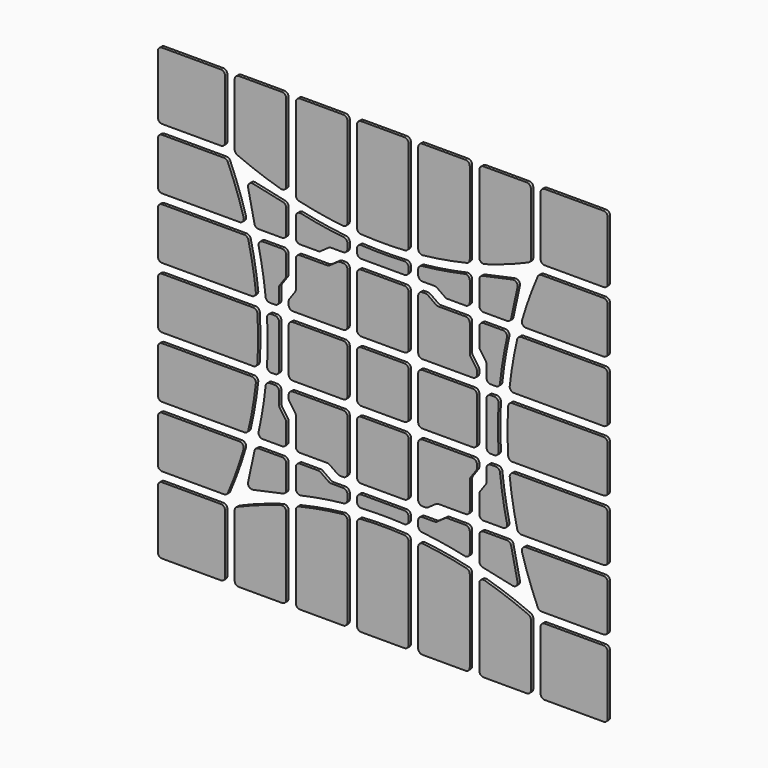
from build123d import *

# Parameters (mm, degrees)
F1_DEPTH = 0.5


with BuildPart() as f1:
    # F0 (on Front) → F1 (new body)
    with BuildSketch(Plane.XZ):
        with BuildLine():
            ThreePointArc((-4.3, -3.6), (-4.094975, -4.094975), (-3.6, -4.3))
            Line((-3.6, -4.3), (3.6, -4.3))
            ThreePointArc((3.6, -4.3), (4.094975, -4.094975), (4.3, -3.6))
            Line((4.3, -3.6), (4.3, 3.6))
            ThreePointArc((4.3, 3.6), (4.094975, 4.094975), (3.6, 4.3))
            Line((3.6, 4.3), (-3.6, 4.3))
            ThreePointArc((-3.6, 4.3), (-4.094975, 4.094975), (-4.3, 3.6))
            Line((-4.3, 3.6), (-4.3, -3.6))
        make_face()
        with BuildLine():
            Line((3.6, -5.9), (-3.6, -5.9))
            ThreePointArc((-3.6, -5.9), (-4.094975, -6.105025), (-4.3, -6.6))
            Line((-4.3, -6.6), (-4.3, -15))
            ThreePointArc((-4.3, -15), (-4.094975, -15.494975), (-3.6, -15.7))
            Line((-3.6, -15.7), (3.6, -15.7))
            ThreePointArc((3.6, -15.7), (4.094975, -15.494975), (4.3, -15))
            Line((4.3, -15), (4.3, -6.6))
            ThreePointArc((4.3, -6.6), (4.094975, -6.105025), (3.6, -5.9))
        make_face()
        with BuildLine():
            Line((-27, -26.3), (-36.8, -26.3))
            ThreePointArc((-36.8, -26.3), (-37.294975, -26.505025), (-37.5, -27))
            Line((-37.5, -27), (-37.5, -36.8))
            ThreePointArc((-37.5, -36.8), (-37.294975, -37.294975), (-36.8, -37.5))
            Line((-36.8, -37.5), (-27, -37.5))
            ThreePointArc((-27, -37.5), (-26.505025, -37.294975), (-26.3, -36.8))
            Line((-26.3, -36.8), (-26.3, -27))
            ThreePointArc((-26.3, -27), (-26.505025, -26.505025), (-27, -26.3))
        make_face()
        with BuildLine():
            Line((-4.3, -18), (-4.3, -18.60235))
            ThreePointArc((-4.3, -18.60235), (-4.080708, -19.111191), (-3.56023, -19.301219))
            ThreePointArc((-3.56023, -19.301219), (0, -19.2), (3.56023, -19.301219))
            ThreePointArc((3.56023, -19.301219), (4.080708, -19.111191), (4.3, -18.60235))
            Line((4.3, -18.60235), (4.3, -18))
            ThreePointArc((4.3, -18), (4.094975, -17.505025), (3.6, -17.3))
            Line((3.6, -17.3), (-3.6, -17.3))
            ThreePointArc((-3.6, -17.3), (-4.094975, -17.505025), (-4.3, -18))
        make_face()
        with BuildLine():
            ThreePointArc((-3.641747, -20.908691), (-4.109521, -21.127457), (-4.3, -21.607445))
            Line((-4.3, -21.607445), (-4.3, -36.8))
            ThreePointArc((-4.3, -36.8), (-4.094975, -37.294975), (-3.6, -37.5))
            Line((-3.6, -37.5), (3.6, -37.5))
            ThreePointArc((3.6, -37.5), (4.094975, -37.294975), (4.3, -36.8))
            Line((4.3, -36.8), (4.3, -21.607445))
            ThreePointArc((4.3, -21.607445), (4.109521, -21.127457), (3.641747, -20.908691))
            ThreePointArc((3.641747, -20.908691), (0, -20.8), (-3.641747, -20.908691))
        make_face()
        with BuildLine():
            ThreePointArc((-24.278313, -25.833901), (-24.585158, -26.092021), (-24.7, -26.476196))
            Line((-24.7, -26.476196), (-24.7, -36.8))
            ThreePointArc((-24.7, -36.8), (-24.494975, -37.294975), (-24, -37.5))
            Line((-24, -37.5), (-16.8, -37.5))
            ThreePointArc((-16.8, -37.5), (-16.305025, -37.294975), (-16.1, -36.8))
            Line((-16.1, -36.8), (-16.1, -23.884945))
            ThreePointArc((-16.1, -23.884945), (-16.379508, -23.325315), (-16.994819, -23.212602))
            ThreePointArc((-16.994819, -23.212602), (-20.678145, -24.407723), (-24.278313, -25.833901))
        make_face()
        with BuildLine():
            ThreePointArc((-13.96003, -22.417146), (-14.348644, -22.663879), (-14.5, -23.098608))
            Line((-14.5, -23.098608), (-14.5, -36.8))
            ThreePointArc((-14.5, -36.8), (-14.294975, -37.294975), (-13.8, -37.5))
            Line((-13.8, -37.5), (-6.6, -37.5))
            ThreePointArc((-6.6, -37.5), (-6.105025, -37.294975), (-5.9, -36.8))
            Line((-5.9, -36.8), (-5.9, -21.861898))
            ThreePointArc((-5.9, -21.861898), (-6.132868, -21.340566), (-6.676536, -21.166095))
            ThreePointArc((-6.676536, -21.166095), (-10.337226, -21.681335), (-13.96003, -22.417146))
        make_face()
        with BuildLine():
            Line((-16.1, -20.709702), (-16.1, -16.8))
            ThreePointArc((-16.1, -16.8), (-16.305025, -16.305025), (-16.8, -16.1))
            Line((-16.8, -16.1), (-20.709702, -16.1))
            ThreePointArc((-20.709702, -16.1), (-21.149669, -16.255547), (-21.394106, -16.653059))
            Line((-21.394106, -16.653059), (-22.463011, -21.631667))
            ThreePointArc((-22.463011, -21.631667), (-22.273583, -22.273583), (-21.631667, -22.463011))
            Line((-21.631667, -22.463011), (-16.653059, -21.394106))
            ThreePointArc((-16.653059, -21.394106), (-16.255547, -21.149669), (-16.1, -20.709702))
        make_face()
        with BuildLine():
            Line((-14.5, -16.8), (-14.5, -20.02101))
            ThreePointArc((-14.5, -20.02101), (-14.237769, -20.567232), (-13.647547, -20.704207))
            ThreePointArc((-13.647547, -20.704207), (-10.104074, -20.01997), (-6.527088, -19.54086))
            ThreePointArc((-6.527088, -19.54086), (-6.079885, -19.313155), (-5.9, -18.844668))
            Line((-5.9, -18.844668), (-5.9, -18))
            ThreePointArc((-5.9, -18), (-6.105025, -17.505025), (-6.6, -17.3))
            Line((-6.6, -17.3), (-8.631739, -17.3))
            ThreePointArc((-8.631739, -17.3), (-8.8435, -17.267201), (-9.035417, -17.171878))
            Line((-9.035417, -17.171878), (-10.372403, -16.228122))
            ThreePointArc((-10.372403, -16.228122), (-10.56432, -16.132799), (-10.776082, -16.1))
            Line((-10.776082, -16.1), (-13.8, -16.1))
            ThreePointArc((-13.8, -16.1), (-14.294975, -16.305025), (-14.5, -16.8))
        make_face()
        with BuildLine():
            Line((-5.9, -15), (-5.9, -6.6))
            ThreePointArc((-5.9, -6.6), (-6.105025, -6.105025), (-6.6, -5.9))
            Line((-6.6, -5.9), (-15, -5.9))
            ThreePointArc((-15, -5.9), (-15.494975, -6.105025), (-15.7, -6.6))
            Line((-15.7, -6.6), (-15.7, -7.123918))
            ThreePointArc((-15.7, -7.123918), (-15.667201, -7.33568), (-15.571878, -7.527597))
            Line((-15.571878, -7.527597), (-14.628122, -8.864583))
            ThreePointArc((-14.628122, -8.864583), (-14.532799, -9.0565), (-14.5, -9.268261))
            Line((-14.5, -9.268261), (-14.5, -13.8))
            ThreePointArc((-14.5, -13.8), (-14.294975, -14.294975), (-13.8, -14.5))
            Line((-13.8, -14.5), (-9.268261, -14.5))
            ThreePointArc((-9.268261, -14.5), (-9.0565, -14.532799), (-8.864583, -14.628122))
            Line((-8.864583, -14.628122), (-7.527597, -15.571878))
            ThreePointArc((-7.527597, -15.571878), (-7.33568, -15.667201), (-7.123918, -15.7))
            Line((-7.123918, -15.7), (-6.6, -15.7))
            ThreePointArc((-6.6, -15.7), (-6.105025, -15.494975), (-5.9, -15))
        make_face()
        with BuildLine():
            ThreePointArc((9.035417, -17.171878), (8.8435, -17.267201), (8.631739, -17.3))
            Line((8.631739, -17.3), (6.6, -17.3))
            ThreePointArc((6.6, -17.3), (6.105025, -17.505025), (5.9, -18))
            Line((5.9, -18), (5.9, -18.844668))
            ThreePointArc((5.9, -18.844668), (6.079885, -19.313155), (6.527088, -19.54086))
            ThreePointArc((6.527088, -19.54086), (10.104074, -20.01997), (13.647547, -20.704207))
            ThreePointArc((13.647547, -20.704207), (14.237769, -20.567232), (14.5, -20.02101))
            Line((14.5, -20.02101), (14.5, -16.8))
            ThreePointArc((14.5, -16.8), (14.294975, -16.305025), (13.8, -16.1))
            Line((13.8, -16.1), (10.776082, -16.1))
            ThreePointArc((10.776082, -16.1), (10.56432, -16.132799), (10.372403, -16.228122))
            Line((10.372403, -16.228122), (9.035417, -17.171878))
        make_face()
        with BuildLine():
            Line((5.9, -21.861898), (5.9, -36.8))
            ThreePointArc((5.9, -36.8), (6.105025, -37.294975), (6.6, -37.5))
            Line((6.6, -37.5), (13.8, -37.5))
            ThreePointArc((13.8, -37.5), (14.294975, -37.294975), (14.5, -36.8))
            Line((14.5, -36.8), (14.5, -23.098608))
            ThreePointArc((14.5, -23.098608), (14.348644, -22.663879), (13.96003, -22.417146))
            ThreePointArc((13.96003, -22.417146), (10.337226, -21.681335), (6.676536, -21.166095))
            ThreePointArc((6.676536, -21.166095), (6.132868, -21.340566), (5.9, -21.861898))
        make_face()
        with BuildLine():
            Line((24.7, -36.8), (24.7, -26.476196))
            ThreePointArc((24.7, -26.476196), (24.585158, -26.092021), (24.278313, -25.833901))
            ThreePointArc((24.278313, -25.833901), (20.678145, -24.407723), (16.994819, -23.212602))
            ThreePointArc((16.994819, -23.212602), (16.379508, -23.325315), (16.1, -23.884945))
            Line((16.1, -23.884945), (16.1, -36.8))
            ThreePointArc((16.1, -36.8), (16.305025, -37.294975), (16.8, -37.5))
            Line((16.8, -37.5), (24, -37.5))
            ThreePointArc((24, -37.5), (24.494975, -37.294975), (24.7, -36.8))
        make_face()
        with BuildLine():
            Line((26.3, -27), (26.3, -36.8))
            ThreePointArc((26.3, -36.8), (26.505025, -37.294975), (27, -37.5))
            Line((27, -37.5), (36.8, -37.5))
            ThreePointArc((36.8, -37.5), (37.294975, -37.294975), (37.5, -36.8))
            Line((37.5, -36.8), (37.5, -27))
            ThreePointArc((37.5, -27), (37.294975, -26.505025), (36.8, -26.3))
            Line((36.8, -26.3), (27, -26.3))
            ThreePointArc((27, -26.3), (26.505025, -26.505025), (26.3, -27))
        make_face()
        with BuildLine():
            Line((27, 26.3), (36.8, 26.3))
            ThreePointArc((36.8, 26.3), (37.294975, 26.505025), (37.5, 27))
            Line((37.5, 27), (37.5, 36.8))
            ThreePointArc((37.5, 36.8), (37.294975, 37.294975), (36.8, 37.5))
            Line((36.8, 37.5), (27, 37.5))
            ThreePointArc((27, 37.5), (26.505025, 37.294975), (26.3, 36.8))
            Line((26.3, 36.8), (26.3, 27))
            ThreePointArc((26.3, 27), (26.505025, 26.505025), (27, 26.3))
        make_face()
        with BuildLine():
            Line((-26.3, 27), (-26.3, 36.8))
            ThreePointArc((-26.3, 36.8), (-26.505025, 37.294975), (-27, 37.5))
            Line((-27, 37.5), (-36.8, 37.5))
            ThreePointArc((-36.8, 37.5), (-37.294975, 37.294975), (-37.5, 36.8))
            Line((-37.5, 36.8), (-37.5, 27))
            ThreePointArc((-37.5, 27), (-37.294975, 26.505025), (-36.8, 26.3))
            Line((-36.8, 26.3), (-27, 26.3))
            ThreePointArc((-27, 26.3), (-26.505025, 26.505025), (-26.3, 27))
        make_face()
        with BuildLine():
            ThreePointArc((36.8, -24.7), (37.294975, -24.494975), (37.5, -24))
            Line((37.5, -24), (37.5, -16.8))
            ThreePointArc((37.5, -16.8), (37.294975, -16.305025), (36.8, -16.1))
            Line((36.8, -16.1), (23.884945, -16.1))
            ThreePointArc((23.884945, -16.1), (23.325315, -16.379508), (23.212602, -16.994819))
            ThreePointArc((23.212602, -16.994819), (24.407723, -20.678145), (25.833901, -24.278313))
            ThreePointArc((25.833901, -24.278313), (26.092021, -24.585158), (26.476196, -24.7))
            Line((26.476196, -24.7), (36.8, -24.7))
        make_face()
        with BuildLine():
            ThreePointArc((21.166095, -6.676536), (21.681335, -10.337226), (22.417146, -13.96003))
            ThreePointArc((22.417146, -13.96003), (22.663879, -14.348644), (23.098608, -14.5))
            Line((23.098608, -14.5), (36.8, -14.5))
            ThreePointArc((36.8, -14.5), (37.294975, -14.294975), (37.5, -13.8))
            Line((37.5, -13.8), (37.5, -6.6))
            ThreePointArc((37.5, -6.6), (37.294975, -6.105025), (36.8, -5.9))
            Line((36.8, -5.9), (21.861898, -5.9))
            ThreePointArc((21.861898, -5.9), (21.340566, -6.132868), (21.166095, -6.676536))
        make_face()
        with BuildLine():
            ThreePointArc((36.8, -4.3), (37.294975, -4.094975), (37.5, -3.6))
            Line((37.5, -3.6), (37.5, 3.6))
            ThreePointArc((37.5, 3.6), (37.294975, 4.094975), (36.8, 4.3))
            Line((36.8, 4.3), (21.607445, 4.3))
            ThreePointArc((21.607445, 4.3), (21.127457, 4.109521), (20.908691, 3.641747))
            ThreePointArc((20.908691, 3.641747), (20.8, 0), (20.908691, -3.641747))
            ThreePointArc((20.908691, -3.641747), (21.127457, -4.109521), (21.607445, -4.3))
            Line((21.607445, -4.3), (36.8, -4.3))
        make_face()
        with BuildLine():
            Line((21.861898, 5.9), (36.8, 5.9))
            ThreePointArc((36.8, 5.9), (37.294975, 6.105025), (37.5, 6.6))
            Line((37.5, 6.6), (37.5, 13.8))
            ThreePointArc((37.5, 13.8), (37.294975, 14.294975), (36.8, 14.5))
            Line((36.8, 14.5), (23.098608, 14.5))
            ThreePointArc((23.098608, 14.5), (22.663879, 14.348644), (22.417146, 13.96003))
            ThreePointArc((22.417146, 13.96003), (21.681335, 10.337226), (21.166095, 6.676536))
            ThreePointArc((21.166095, 6.676536), (21.340566, 6.132868), (21.861898, 5.9))
        make_face()
        with BuildLine():
            Line((23.884945, 16.1), (36.8, 16.1))
            ThreePointArc((36.8, 16.1), (37.294975, 16.305025), (37.5, 16.8))
            Line((37.5, 16.8), (37.5, 24))
            ThreePointArc((37.5, 24), (37.294975, 24.494975), (36.8, 24.7))
            Line((36.8, 24.7), (26.476196, 24.7))
            ThreePointArc((26.476196, 24.7), (26.092021, 24.585158), (25.833901, 24.278313))
            ThreePointArc((25.833901, 24.278313), (24.407723, 20.678145), (23.212602, 16.994819))
            ThreePointArc((23.212602, 16.994819), (23.325315, 16.379508), (23.884945, 16.1))
        make_face()
        with BuildLine():
            ThreePointArc((24.7, 36.8), (24.494975, 37.294975), (24, 37.5))
            Line((24, 37.5), (16.8, 37.5))
            ThreePointArc((16.8, 37.5), (16.305025, 37.294975), (16.1, 36.8))
            Line((16.1, 36.8), (16.1, 23.884945))
            ThreePointArc((16.1, 23.884945), (16.379508, 23.325315), (16.994819, 23.212602))
            ThreePointArc((16.994819, 23.212602), (20.678145, 24.407723), (24.278313, 25.833901))
            ThreePointArc((24.278313, 25.833901), (24.585158, 26.092021), (24.7, 26.476196))
            Line((24.7, 26.476196), (24.7, 36.8))
        make_face()
        with BuildLine():
            ThreePointArc((6.676536, 21.166095), (10.337226, 21.681335), (13.96003, 22.417146))
            ThreePointArc((13.96003, 22.417146), (14.348644, 22.663879), (14.5, 23.098608))
            Line((14.5, 23.098608), (14.5, 36.8))
            ThreePointArc((14.5, 36.8), (14.294975, 37.294975), (13.8, 37.5))
            Line((13.8, 37.5), (6.6, 37.5))
            ThreePointArc((6.6, 37.5), (6.105025, 37.294975), (5.9, 36.8))
            Line((5.9, 36.8), (5.9, 21.861898))
            ThreePointArc((5.9, 21.861898), (6.132868, 21.340566), (6.676536, 21.166095))
        make_face()
        with BuildLine():
            ThreePointArc((4.3, 36.8), (4.094975, 37.294975), (3.6, 37.5))
            Line((3.6, 37.5), (-3.6, 37.5))
            ThreePointArc((-3.6, 37.5), (-4.094975, 37.294975), (-4.3, 36.8))
            Line((-4.3, 36.8), (-4.3, 21.607445))
            ThreePointArc((-4.3, 21.607445), (-4.109521, 21.127457), (-3.641747, 20.908691))
            ThreePointArc((-3.641747, 20.908691), (0, 20.8), (3.641747, 20.908691))
            ThreePointArc((3.641747, 20.908691), (4.109521, 21.127457), (4.3, 21.607445))
            Line((4.3, 21.607445), (4.3, 36.8))
        make_face()
        with BuildLine():
            Line((-5.9, 21.861898), (-5.9, 36.8))
            ThreePointArc((-5.9, 36.8), (-6.105025, 37.294975), (-6.6, 37.5))
            Line((-6.6, 37.5), (-13.8, 37.5))
            ThreePointArc((-13.8, 37.5), (-14.294975, 37.294975), (-14.5, 36.8))
            Line((-14.5, 36.8), (-14.5, 23.098608))
            ThreePointArc((-14.5, 23.098608), (-14.348644, 22.663879), (-13.96003, 22.417146))
            ThreePointArc((-13.96003, 22.417146), (-10.337226, 21.681335), (-6.676536, 21.166095))
            ThreePointArc((-6.676536, 21.166095), (-6.132868, 21.340566), (-5.9, 21.861898))
        make_face()
        with BuildLine():
            Line((-16.1, 23.884945), (-16.1, 36.8))
            ThreePointArc((-16.1, 36.8), (-16.305025, 37.294975), (-16.8, 37.5))
            Line((-16.8, 37.5), (-24, 37.5))
            ThreePointArc((-24, 37.5), (-24.494975, 37.294975), (-24.7, 36.8))
            Line((-24.7, 36.8), (-24.7, 26.476196))
            ThreePointArc((-24.7, 26.476196), (-24.585158, 26.092021), (-24.278313, 25.833901))
            ThreePointArc((-24.278313, 25.833901), (-20.678145, 24.407723), (-16.994819, 23.212602))
            ThreePointArc((-16.994819, 23.212602), (-16.379508, 23.325315), (-16.1, 23.884945))
        make_face()
        with BuildLine():
            ThreePointArc((-36.8, 24.7), (-37.294975, 24.494975), (-37.5, 24))
            Line((-37.5, 24), (-37.5, 16.8))
            ThreePointArc((-37.5, 16.8), (-37.294975, 16.305025), (-36.8, 16.1))
            Line((-36.8, 16.1), (-23.884945, 16.1))
            ThreePointArc((-23.884945, 16.1), (-23.325315, 16.379508), (-23.212602, 16.994819))
            ThreePointArc((-23.212602, 16.994819), (-24.407723, 20.678145), (-25.833901, 24.278313))
            ThreePointArc((-25.833901, 24.278313), (-26.092021, 24.585158), (-26.476196, 24.7))
            Line((-26.476196, 24.7), (-36.8, 24.7))
        make_face()
        with BuildLine():
            ThreePointArc((-21.166095, 6.676536), (-21.681335, 10.337226), (-22.417146, 13.96003))
            ThreePointArc((-22.417146, 13.96003), (-22.663879, 14.348644), (-23.098608, 14.5))
            Line((-23.098608, 14.5), (-36.8, 14.5))
            ThreePointArc((-36.8, 14.5), (-37.294975, 14.294975), (-37.5, 13.8))
            Line((-37.5, 13.8), (-37.5, 6.6))
            ThreePointArc((-37.5, 6.6), (-37.294975, 6.105025), (-36.8, 5.9))
            Line((-36.8, 5.9), (-21.861898, 5.9))
            ThreePointArc((-21.861898, 5.9), (-21.340566, 6.132868), (-21.166095, 6.676536))
        make_face()
        with BuildLine():
            ThreePointArc((-36.8, 4.3), (-37.294975, 4.094975), (-37.5, 3.6))
            Line((-37.5, 3.6), (-37.5, -3.6))
            ThreePointArc((-37.5, -3.6), (-37.294975, -4.094975), (-36.8, -4.3))
            Line((-36.8, -4.3), (-21.607445, -4.3))
            ThreePointArc((-21.607445, -4.3), (-21.127457, -4.109521), (-20.908691, -3.641747))
            ThreePointArc((-20.908691, -3.641747), (-20.8, 0), (-20.908691, 3.641747))
            ThreePointArc((-20.908691, 3.641747), (-21.127457, 4.109521), (-21.607445, 4.3))
            Line((-21.607445, 4.3), (-36.8, 4.3))
        make_face()
        with BuildLine():
            Line((-21.861898, -5.9), (-36.8, -5.9))
            ThreePointArc((-36.8, -5.9), (-37.294975, -6.105025), (-37.5, -6.6))
            Line((-37.5, -6.6), (-37.5, -13.8))
            ThreePointArc((-37.5, -13.8), (-37.294975, -14.294975), (-36.8, -14.5))
            Line((-36.8, -14.5), (-23.098608, -14.5))
            ThreePointArc((-23.098608, -14.5), (-22.663879, -14.348644), (-22.417146, -13.96003))
            ThreePointArc((-22.417146, -13.96003), (-21.681335, -10.337226), (-21.166095, -6.676536))
            ThreePointArc((-21.166095, -6.676536), (-21.340566, -6.132868), (-21.861898, -5.9))
        make_face()
        with BuildLine():
            Line((-23.884945, -16.1), (-36.8, -16.1))
            ThreePointArc((-36.8, -16.1), (-37.294975, -16.305025), (-37.5, -16.8))
            Line((-37.5, -16.8), (-37.5, -24))
            ThreePointArc((-37.5, -24), (-37.294975, -24.494975), (-36.8, -24.7))
            Line((-36.8, -24.7), (-26.476196, -24.7))
            ThreePointArc((-26.476196, -24.7), (-26.092021, -24.585158), (-25.833901, -24.278313))
            ThreePointArc((-25.833901, -24.278313), (-24.407723, -20.678145), (-23.212602, -16.994819))
            ThreePointArc((-23.212602, -16.994819), (-23.325315, -16.379508), (-23.884945, -16.1))
        make_face()
        with BuildLine():
            Line((5.9, 3.6), (5.9, -3.6))
            ThreePointArc((5.9, -3.6), (6.105025, -4.094975), (6.6, -4.3))
            Line((6.6, -4.3), (15, -4.3))
            ThreePointArc((15, -4.3), (15.494975, -4.094975), (15.7, -3.6))
            Line((15.7, -3.6), (15.7, 3.6))
            ThreePointArc((15.7, 3.6), (15.494975, 4.094975), (15, 4.3))
            Line((15, 4.3), (6.6, 4.3))
            ThreePointArc((6.6, 4.3), (6.105025, 4.094975), (5.9, 3.6))
        make_face()
        with BuildLine():
            Line((-3.6, 5.9), (3.6, 5.9))
            ThreePointArc((3.6, 5.9), (4.094975, 6.105025), (4.3, 6.6))
            Line((4.3, 6.6), (4.3, 15))
            ThreePointArc((4.3, 15), (4.094975, 15.494975), (3.6, 15.7))
            Line((3.6, 15.7), (-3.6, 15.7))
            ThreePointArc((-3.6, 15.7), (-4.094975, 15.494975), (-4.3, 15))
            Line((-4.3, 15), (-4.3, 6.6))
            ThreePointArc((-4.3, 6.6), (-4.094975, 6.105025), (-3.6, 5.9))
        make_face()
        with BuildLine():
            Line((-5.9, -3.6), (-5.9, 3.6))
            ThreePointArc((-5.9, 3.6), (-6.105025, 4.094975), (-6.6, 4.3))
            Line((-6.6, 4.3), (-15, 4.3))
            ThreePointArc((-15, 4.3), (-15.494975, 4.094975), (-15.7, 3.6))
            Line((-15.7, 3.6), (-15.7, -3.6))
            ThreePointArc((-15.7, -3.6), (-15.494975, -4.094975), (-15, -4.3))
            Line((-15, -4.3), (-6.6, -4.3))
            ThreePointArc((-6.6, -4.3), (-6.105025, -4.094975), (-5.9, -3.6))
        make_face()
        with BuildLine():
            Line((17.3, 3.6), (17.3, -3.6))
            ThreePointArc((17.3, -3.6), (17.505025, -4.094975), (18, -4.3))
            Line((18, -4.3), (18.60235, -4.3))
            ThreePointArc((18.60235, -4.3), (19.111191, -4.080708), (19.301219, -3.56023))
            ThreePointArc((19.301219, -3.56023), (19.2, 0), (19.301219, 3.56023))
            ThreePointArc((19.301219, 3.56023), (19.111191, 4.080708), (18.60235, 4.3))
            Line((18.60235, 4.3), (18, 4.3))
            ThreePointArc((18, 4.3), (17.505025, 4.094975), (17.3, 3.6))
        make_face()
        with BuildLine():
            Line((-3.6, 17.3), (3.6, 17.3))
            ThreePointArc((3.6, 17.3), (4.094975, 17.505025), (4.3, 18))
            Line((4.3, 18), (4.3, 18.60235))
            ThreePointArc((4.3, 18.60235), (4.080708, 19.111191), (3.56023, 19.301219))
            ThreePointArc((3.56023, 19.301219), (0, 19.2), (-3.56023, 19.301219))
            ThreePointArc((-3.56023, 19.301219), (-4.080708, 19.111191), (-4.3, 18.60235))
            Line((-4.3, 18.60235), (-4.3, 18))
            ThreePointArc((-4.3, 18), (-4.094975, 17.505025), (-3.6, 17.3))
        make_face()
        with BuildLine():
            Line((-17.3, -3.6), (-17.3, 3.6))
            ThreePointArc((-17.3, 3.6), (-17.505025, 4.094975), (-18, 4.3))
            Line((-18, 4.3), (-18.60235, 4.3))
            ThreePointArc((-18.60235, 4.3), (-19.111191, 4.080708), (-19.301219, 3.56023))
            ThreePointArc((-19.301219, 3.56023), (-19.2, 0), (-19.301219, -3.56023))
            ThreePointArc((-19.301219, -3.56023), (-19.111191, -4.080708), (-18.60235, -4.3))
            Line((-18.60235, -4.3), (-18, -4.3))
            ThreePointArc((-18, -4.3), (-17.505025, -4.094975), (-17.3, -3.6))
        make_face()
        with BuildLine():
            ThreePointArc((6.6, -5.9), (6.105025, -6.105025), (5.9, -6.6))
            Line((5.9, -6.6), (5.9, -15))
            ThreePointArc((5.9, -15), (6.105025, -15.494975), (6.6, -15.7))
            Line((6.6, -15.7), (7.123918, -15.7))
            ThreePointArc((7.123918, -15.7), (7.33568, -15.667201), (7.527597, -15.571878))
            Line((7.527597, -15.571878), (8.864583, -14.628122))
            ThreePointArc((8.864583, -14.628122), (9.0565, -14.532799), (9.268261, -14.5))
            Line((9.268261, -14.5), (13.8, -14.5))
            ThreePointArc((13.8, -14.5), (14.294975, -14.294975), (14.5, -13.8))
            Line((14.5, -13.8), (14.5, -9.268261))
            ThreePointArc((14.5, -9.268261), (14.532799, -9.0565), (14.628122, -8.864583))
            Line((14.628122, -8.864583), (15.571878, -7.527597))
            ThreePointArc((15.571878, -7.527597), (15.667201, -7.33568), (15.7, -7.123918))
            Line((15.7, -7.123918), (15.7, -6.6))
            ThreePointArc((15.7, -6.6), (15.494975, -6.105025), (15, -5.9))
            Line((15, -5.9), (6.6, -5.9))
        make_face()
        with BuildLine():
            ThreePointArc((16.1, -20.709702), (16.255547, -21.149669), (16.653059, -21.394106))
            Line((16.653059, -21.394106), (21.631667, -22.463011))
            ThreePointArc((21.631667, -22.463011), (22.273583, -22.273583), (22.463011, -21.631667))
            Line((22.463011, -21.631667), (21.394106, -16.653059))
            ThreePointArc((21.394106, -16.653059), (21.149669, -16.255547), (20.709702, -16.1))
            Line((20.709702, -16.1), (16.8, -16.1))
            ThreePointArc((16.8, -16.1), (16.305025, -16.305025), (16.1, -16.8))
            Line((16.1, -16.8), (16.1, -20.709702))
        make_face()
        with BuildLine():
            ThreePointArc((20.709702, 16.1), (21.149669, 16.255547), (21.394106, 16.653059))
            Line((21.394106, 16.653059), (22.463011, 21.631667))
            ThreePointArc((22.463011, 21.631667), (22.273583, 22.273583), (21.631667, 22.463011))
            Line((21.631667, 22.463011), (16.653059, 21.394106))
            ThreePointArc((16.653059, 21.394106), (16.255547, 21.149669), (16.1, 20.709702))
            Line((16.1, 20.709702), (16.1, 16.8))
            ThreePointArc((16.1, 16.8), (16.305025, 16.305025), (16.8, 16.1))
            Line((16.8, 16.1), (20.709702, 16.1))
        make_face()
        with BuildLine():
            ThreePointArc((-16.1, 20.709702), (-16.255547, 21.149669), (-16.653059, 21.394106))
            Line((-16.653059, 21.394106), (-21.631667, 22.463011))
            ThreePointArc((-21.631667, 22.463011), (-22.273583, 22.273583), (-22.463011, 21.631667))
            Line((-22.463011, 21.631667), (-21.394106, 16.653059))
            ThreePointArc((-21.394106, 16.653059), (-21.149669, 16.255547), (-20.709702, 16.1))
            Line((-20.709702, 16.1), (-16.8, 16.1))
            ThreePointArc((-16.8, 16.1), (-16.305025, 16.305025), (-16.1, 16.8))
            Line((-16.1, 16.8), (-16.1, 20.709702))
        make_face()
        with BuildLine():
            Line((16.8, -14.5), (20.02101, -14.5))
            ThreePointArc((20.02101, -14.5), (20.567232, -14.237769), (20.704207, -13.647547))
            ThreePointArc((20.704207, -13.647547), (20.01997, -10.104074), (19.54086, -6.527088))
            ThreePointArc((19.54086, -6.527088), (19.313155, -6.079885), (18.844668, -5.9))
            Line((18.844668, -5.9), (18, -5.9))
            ThreePointArc((18, -5.9), (17.505025, -6.105025), (17.3, -6.6))
            Line((17.3, -6.6), (17.3, -8.631739))
            ThreePointArc((17.3, -8.631739), (17.267201, -8.8435), (17.171878, -9.035417))
            Line((17.171878, -9.035417), (16.228122, -10.372403))
            ThreePointArc((16.228122, -10.372403), (16.132799, -10.56432), (16.1, -10.776082))
            Line((16.1, -10.776082), (16.1, -13.8))
            ThreePointArc((16.1, -13.8), (16.305025, -14.294975), (16.8, -14.5))
        make_face()
        with BuildLine():
            Line((14.5, 16.8), (14.5, 20.02101))
            ThreePointArc((14.5, 20.02101), (14.237769, 20.567232), (13.647547, 20.704207))
            ThreePointArc((13.647547, 20.704207), (10.104074, 20.01997), (6.527088, 19.54086))
            ThreePointArc((6.527088, 19.54086), (6.079885, 19.313155), (5.9, 18.844668))
            Line((5.9, 18.844668), (5.9, 18))
            ThreePointArc((5.9, 18), (6.105025, 17.505025), (6.6, 17.3))
            Line((6.6, 17.3), (8.631739, 17.3))
            ThreePointArc((8.631739, 17.3), (8.8435, 17.267201), (9.035417, 17.171878))
            Line((9.035417, 17.171878), (10.372403, 16.228122))
            ThreePointArc((10.372403, 16.228122), (10.56432, 16.132799), (10.776082, 16.1))
            Line((10.776082, 16.1), (13.8, 16.1))
            ThreePointArc((13.8, 16.1), (14.294975, 16.305025), (14.5, 16.8))
        make_face()
        with BuildLine():
            Line((-16.8, 14.5), (-20.02101, 14.5))
            ThreePointArc((-20.02101, 14.5), (-20.567232, 14.237769), (-20.704207, 13.647547))
            ThreePointArc((-20.704207, 13.647547), (-20.01997, 10.104074), (-19.54086, 6.527088))
            ThreePointArc((-19.54086, 6.527088), (-19.313155, 6.079885), (-18.844668, 5.9))
            Line((-18.844668, 5.9), (-18, 5.9))
            ThreePointArc((-18, 5.9), (-17.505025, 6.105025), (-17.3, 6.6))
            Line((-17.3, 6.6), (-17.3, 8.631739))
            ThreePointArc((-17.3, 8.631739), (-17.267201, 8.8435), (-17.171878, 9.035417))
            Line((-17.171878, 9.035417), (-16.228122, 10.372403))
            ThreePointArc((-16.228122, 10.372403), (-16.132799, 10.56432), (-16.1, 10.776082))
            Line((-16.1, 10.776082), (-16.1, 13.8))
            ThreePointArc((-16.1, 13.8), (-16.305025, 14.294975), (-16.8, 14.5))
        make_face()
        with BuildLine():
            ThreePointArc((17.3, 6.6), (17.505025, 6.105025), (18, 5.9))
            Line((18, 5.9), (18.844668, 5.9))
            ThreePointArc((18.844668, 5.9), (19.313155, 6.079885), (19.54086, 6.527088))
            ThreePointArc((19.54086, 6.527088), (20.01997, 10.104074), (20.704207, 13.647547))
            ThreePointArc((20.704207, 13.647547), (20.567232, 14.237769), (20.02101, 14.5))
            Line((20.02101, 14.5), (16.8, 14.5))
            ThreePointArc((16.8, 14.5), (16.305025, 14.294975), (16.1, 13.8))
            Line((16.1, 13.8), (16.1, 10.776082))
            ThreePointArc((16.1, 10.776082), (16.132799, 10.56432), (16.228122, 10.372403))
            Line((16.228122, 10.372403), (17.171878, 9.035417))
            ThreePointArc((17.171878, 9.035417), (17.267201, 8.8435), (17.3, 8.631739))
            Line((17.3, 8.631739), (17.3, 6.6))
        make_face()
        with BuildLine():
            ThreePointArc((-6.6, 17.3), (-6.105025, 17.505025), (-5.9, 18))
            Line((-5.9, 18), (-5.9, 18.844668))
            ThreePointArc((-5.9, 18.844668), (-6.079885, 19.313155), (-6.527088, 19.54086))
            ThreePointArc((-6.527088, 19.54086), (-10.104074, 20.01997), (-13.647547, 20.704207))
            ThreePointArc((-13.647547, 20.704207), (-14.237769, 20.567232), (-14.5, 20.02101))
            Line((-14.5, 20.02101), (-14.5, 16.8))
            ThreePointArc((-14.5, 16.8), (-14.294975, 16.305025), (-13.8, 16.1))
            Line((-13.8, 16.1), (-10.776082, 16.1))
            ThreePointArc((-10.776082, 16.1), (-10.56432, 16.132799), (-10.372403, 16.228122))
            Line((-10.372403, 16.228122), (-9.035417, 17.171878))
            ThreePointArc((-9.035417, 17.171878), (-8.8435, 17.267201), (-8.631739, 17.3))
            Line((-8.631739, 17.3), (-6.6, 17.3))
        make_face()
        with BuildLine():
            ThreePointArc((-17.3, -6.6), (-17.505025, -6.105025), (-18, -5.9))
            Line((-18, -5.9), (-18.844668, -5.9))
            ThreePointArc((-18.844668, -5.9), (-19.313155, -6.079885), (-19.54086, -6.527088))
            ThreePointArc((-19.54086, -6.527088), (-20.01997, -10.104074), (-20.704207, -13.647547))
            ThreePointArc((-20.704207, -13.647547), (-20.567232, -14.237769), (-20.02101, -14.5))
            Line((-20.02101, -14.5), (-16.8, -14.5))
            ThreePointArc((-16.8, -14.5), (-16.305025, -14.294975), (-16.1, -13.8))
            Line((-16.1, -13.8), (-16.1, -10.776082))
            ThreePointArc((-16.1, -10.776082), (-16.132799, -10.56432), (-16.228122, -10.372403))
            Line((-16.228122, -10.372403), (-17.171878, -9.035417))
            ThreePointArc((-17.171878, -9.035417), (-17.267201, -8.8435), (-17.3, -8.631739))
            Line((-17.3, -8.631739), (-17.3, -6.6))
        make_face()
        with BuildLine():
            Line((5.9, 15), (5.9, 6.6))
            ThreePointArc((5.9, 6.6), (6.105025, 6.105025), (6.6, 5.9))
            Line((6.6, 5.9), (15, 5.9))
            ThreePointArc((15, 5.9), (15.494975, 6.105025), (15.7, 6.6))
            Line((15.7, 6.6), (15.7, 7.123918))
            ThreePointArc((15.7, 7.123918), (15.667201, 7.33568), (15.571878, 7.527597))
            Line((15.571878, 7.527597), (14.628122, 8.864583))
            ThreePointArc((14.628122, 8.864583), (14.532799, 9.0565), (14.5, 9.268261))
            Line((14.5, 9.268261), (14.5, 13.8))
            ThreePointArc((14.5, 13.8), (14.294975, 14.294975), (13.8, 14.5))
            Line((13.8, 14.5), (9.268261, 14.5))
            ThreePointArc((9.268261, 14.5), (9.0565, 14.532799), (8.864583, 14.628122))
            Line((8.864583, 14.628122), (7.527597, 15.571878))
            ThreePointArc((7.527597, 15.571878), (7.33568, 15.667201), (7.123918, 15.7))
            Line((7.123918, 15.7), (6.6, 15.7))
            ThreePointArc((6.6, 15.7), (6.105025, 15.494975), (5.9, 15))
        make_face()
        with BuildLine():
            ThreePointArc((-8.864583, 14.628122), (-9.0565, 14.532799), (-9.268261, 14.5))
            Line((-9.268261, 14.5), (-13.8, 14.5))
            ThreePointArc((-13.8, 14.5), (-14.294975, 14.294975), (-14.5, 13.8))
            Line((-14.5, 13.8), (-14.5, 9.268261))
            ThreePointArc((-14.5, 9.268261), (-14.532799, 9.0565), (-14.628122, 8.864583))
            Line((-14.628122, 8.864583), (-15.571878, 7.527597))
            ThreePointArc((-15.571878, 7.527597), (-15.667201, 7.33568), (-15.7, 7.123918))
            Line((-15.7, 7.123918), (-15.7, 6.6))
            ThreePointArc((-15.7, 6.6), (-15.494975, 6.105025), (-15, 5.9))
            Line((-15, 5.9), (-6.6, 5.9))
            ThreePointArc((-6.6, 5.9), (-6.105025, 6.105025), (-5.9, 6.6))
            Line((-5.9, 6.6), (-5.9, 15))
            ThreePointArc((-5.9, 15), (-6.105025, 15.494975), (-6.6, 15.7))
            Line((-6.6, 15.7), (-7.123918, 15.7))
            ThreePointArc((-7.123918, 15.7), (-7.33568, 15.667201), (-7.527597, 15.571878))
            Line((-7.527597, 15.571878), (-8.864583, 14.628122))
        make_face()
    extrude(amount=F1_DEPTH)


solid = f1.part
